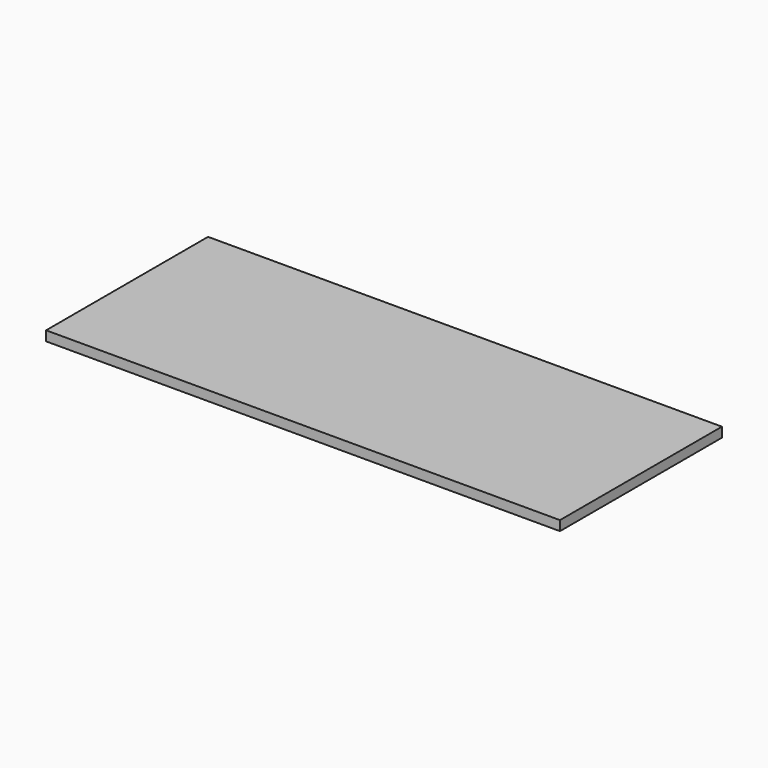
from build123d import *

# Parameters (mm, degrees)
F2_DEPTH = 132
F3_DEPTH = 132


with BuildPart() as f2:
    # F1 (on Right) → F2 (new body)
    with BuildSketch(Plane.YZ):
        Polygon((-52, 2.5), (-52, 0), (-52, -2.5), (52, -2.5), (52, 2.5), align=None)
    extrude(amount=F2_DEPTH)

    # F3 (add): a face of the model
    f3_faces = [f2.faces().sort_by_distance(p)[0] for p in [
        (0, 0, 0),
    ]]
    extrude(f3_faces, amount=F3_DEPTH)


solid = f2.part
